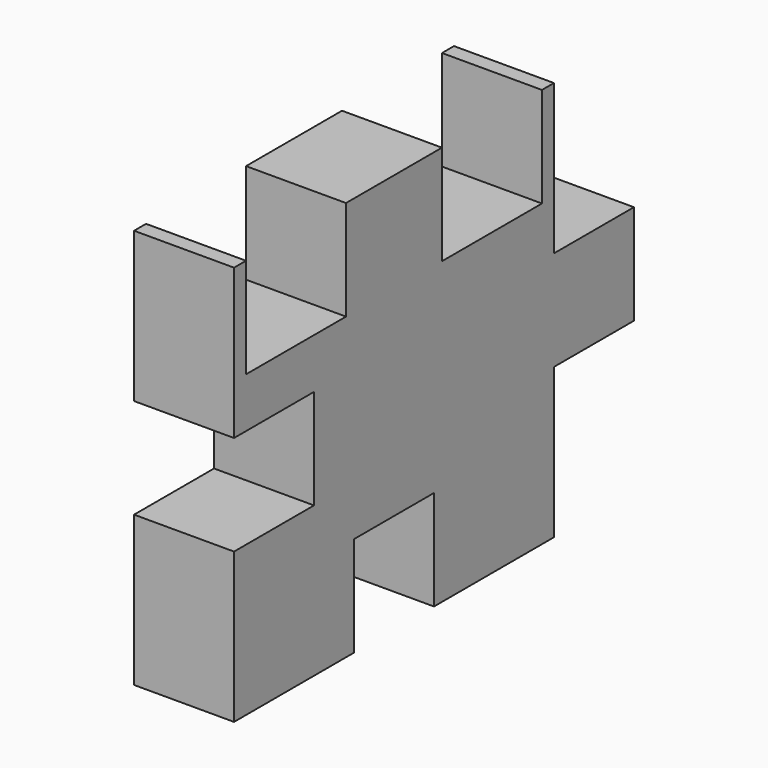
from build123d import *

# Parameters (mm, degrees)
F0_W     = 7.9375
F0_H     = 6.35
F0_W_2   = 6.35
F1_DEPTH = 6.35
F2_DEPTH = 25.4


with BuildPart() as f1:
    # F0 (on Right) → F1 (new body)
    with BuildSketch(Plane.YZ):
        Polygon((0.9525, 0), (0, 0), (0, -9.525), (6.35, -9.525), (6.35, -15.875), (0, -15.875), (0, -25.4), (9.525, -25.4), (9.525, -19.05), (15.875, -19.05), (15.875, -25.4), (25.4, -25.4), (25.4, -15.875), (25.4, -9.525), (25.4, 0), (24.4475, 0), (24.4475, -6.35), (16.51, -6.35), (16.51, 0), (8.89, 0), (8.89, -6.35), (0.9525, -6.35), align=None)
        with Locations((4.92125, -3.175)):
            Rectangle(F0_W, F0_H)
        with Locations((3.175, -12.7)):
            Rectangle(F0_W_2, F0_H)
        with Locations((20.47875, -3.175)):
            Rectangle(F0_W, F0_H)
        with Locations((12.7, -22.225)):
            Rectangle(F0_W_2, F0_H)
        with Locations((28.575, -12.7)):
            Rectangle(F0_W_2, F0_H)
    extrude(amount=F1_DEPTH)

    # F0 (on Right) → F2 (cut)
    with BuildSketch(Plane.YZ):
        with Locations((4.92125, -3.175)):
            Rectangle(F0_W, F0_H)
        with Locations((20.47875, -3.175)):
            Rectangle(F0_W, F0_H)
        with Locations((12.7, -22.225)):
            Rectangle(F0_W_2, F0_H)
        with Locations((3.175, -12.7)):
            Rectangle(F0_W_2, F0_H)
    extrude(amount=F2_DEPTH, mode=Mode.SUBTRACT)


solid = f1.part
